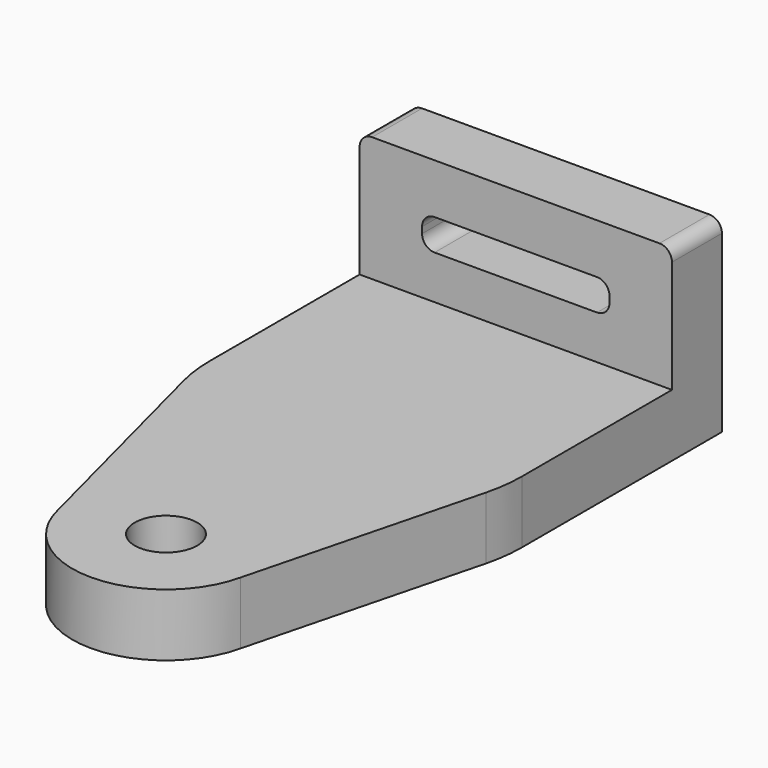
from build123d import *

# Parameters (mm, degrees)
F0_R      = 15.875
F0_R_2    = 12.7
F1_DEPTH  = 6.35
F2_W      = 31.75
F2_H      = 25.4
F3_DEPTH  = 6.35
F4_W      = 31.75
F4_H      = 6.35
F5_DEPTH  = 12.7
F6_W      = 19.05
F6_H      = 3.175
F7_DEPTH  = 6.35
F8_R      = 1.27
F9_R      = 12.7
F10_DEPTH = 6.35
F12_DEPTH = 6.35
F13_R     = 3.175
F14_DEPTH = 6.35


with BuildPart() as f1:
    # F0 (on Top) → F1 (new body)
    with BuildSketch(Plane.XY):
        Circle(F0_R)
        Circle(F0_R_2, mode=Mode.SUBTRACT)
    extrude(amount=F1_DEPTH)

    # F2 (on Top) → F3 (join)
    with BuildSketch(Plane.XY):
        with Locations((0, 12.7)):
            Rectangle(F2_W, F2_H)
    extrude(amount=F3_DEPTH)

    # F4 (on face) → F5 (join)
    with BuildSketch(Plane.XY.offset(6.35)):
        with Locations((0, 22.225)):
            Rectangle(F4_W, F4_H)
    extrude(amount=F5_DEPTH)

    # F6 (on face) → F7 (cut, through all)
    with BuildSketch(Plane(origin=(0, 25.4, 0), x_dir=(-1, 0, 0), z_dir=(0, 1, 0))):
        with Locations((0, 12.3825)):
            Rectangle(F6_W, F6_H)
    extrude(amount=-F7_DEPTH, mode=Mode.SUBTRACT)

    # F8
    f8_edges = [f1.edges().sort_by_distance(p)[0] for p in [
        (-9.525, 22.225, 13.97),
        (9.525, 22.225, 13.97),
        (9.525, 22.225, 10.795),
        (-9.525, 22.225, 10.795),
        (15.875, 22.225, 19.05),
        (-15.875, 22.225, 19.05),
    ]]
    fillet(f8_edges, radius=F8_R)

    # F9 (on face) → F10 (join)
    with BuildSketch(Plane(origin=(0, 0, 0), x_dir=(1, 0, 0), z_dir=(0, 0, -1))):
        Circle(F9_R)
    extrude(amount=-F10_DEPTH)

    # F11 (on face) → F12 (join)
    with BuildSketch(Plane(origin=(0, 0, 0), x_dir=(1, 0, 0), z_dir=(0, 0, -1))):
        with BuildLine():
            ThreePointArc((-15.370375, 3.970791), (-9.720579, 12.550935), (0, 15.875))
            ThreePointArc((0, 15.875), (-7.45355, 19.469551), (-9.281448, 27.540177))
            Line((-9.281448, 27.540177), (-15.370375, 3.970791))
        make_face()
        with BuildLine():
            ThreePointArc((0, 15.875), (6.735192, 18.664808), (9.525, 25.4))
            ThreePointArc((9.525, 25.4), (9.463916, 26.476995), (9.281448, 27.540177))
            ThreePointArc((9.281448, 27.540177), (0, 34.925), (-9.281448, 27.540177))
            ThreePointArc((-9.281448, 27.540177), (-7.45355, 19.469551), (0, 15.875))
        make_face()
        with BuildLine():
            ThreePointArc((9.281448, 27.540177), (9.463916, 26.476995), (9.525, 25.4))
            ThreePointArc((9.525, 25.4), (6.735192, 18.664808), (0, 15.875))
            ThreePointArc((0, 15.875), (9.720579, 12.550935), (15.370375, 3.970791))
            Line((15.370375, 3.970791), (9.281448, 27.540177))
        make_face()
    extrude(amount=-F12_DEPTH)

    # F13 (on face) → F14 (cut, through all)
    with BuildSketch(Plane.XY.offset(6.35)):
        with Locations((0, -25.4)):
            Circle(F13_R)
    extrude(amount=-F14_DEPTH, mode=Mode.SUBTRACT)


solid = f1.part
